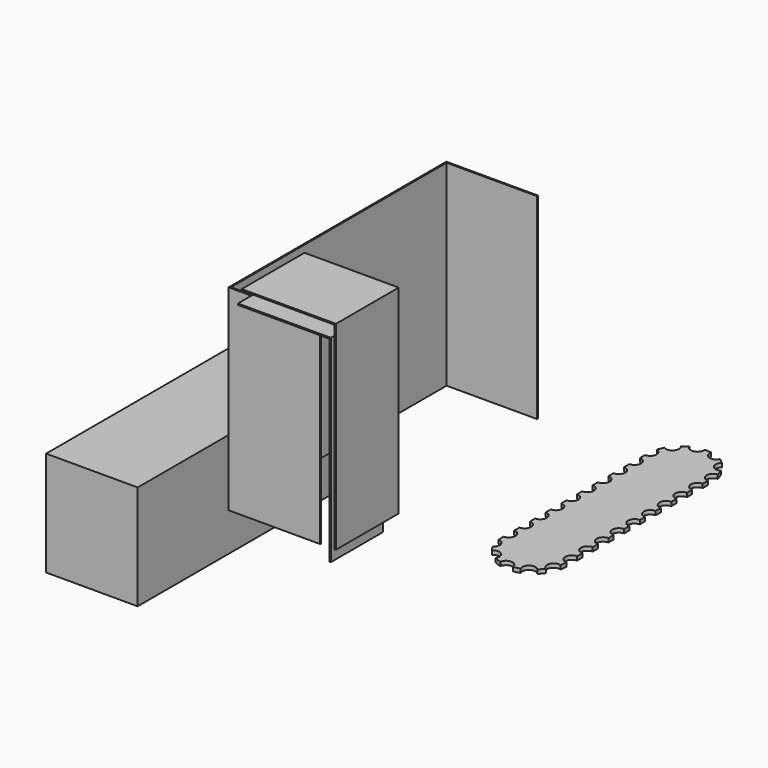
from build123d import *

# Parameters (mm, degrees)
F0_W     = 700
F0_H     = 2080
F1_DEPTH = 800
F3_DEPTH = 1500
F5_DEPTH = 500
F7_DEPTH = 600
F9_DEPTH = 30


with BuildPart() as f1:
    # F0 (on Top) → F1 (new body)
    with BuildSketch(Plane.XY):
        with Locations((185.6392532587, 991.8245942891)):
            Rectangle(F0_W, F0_H)
    extrude(amount=F1_DEPTH)


with BuildPart() as f3:
    # F2 (on face) → F3 (new body)
    with BuildSketch(Plane.XY.offset(800)):
        Polygon((1843.7712907791, 2130.4741051793), (1843.7712907791, 2140.4741051793), (1143.7712907791, 2140.4741051793), (1143.7712907791, 60.4741051793), (1843.7712907791, 60.4741051793), (1843.7712907791, 70.4741051793), (1153.7712907791, 70.4741051793), (1153.7712907791, 2130.4741051793), align=None)
    extrude(amount=F3_DEPTH)


with BuildPart() as f5:
    # F4 (on face) → F5 (new body)
    with BuildSketch(Plane.XZ.offset(-60.4741051793)):
        Polygon((2314.7522926331, 2537.756562233), (2314.7522926331, 1037.756562233), (2324.7522926331, 1037.756562233), (2324.7522926331, 2547.756562233), (1614.7522926331, 2547.756562233), (1614.7522926331, 2537.756562233), align=None)
    extrude(amount=F5_DEPTH)


with BuildPart() as f7:
    # F6 (on face) → F7 (new body)
    with BuildSketch(Plane.XZ.offset(-60.4741051793)):
        Polygon((1724.0227460861, 2721.1852169037), (1724.0227460861, 2711.1852169037), (2434.0227460861, 2711.1852169037), (2434.0227460861, 1201.1852169037), (2444.0227460861, 1201.1852169037), (2444.0227460861, 2721.1852169037), align=None)
    extrude(amount=F7_DEPTH)


with BuildPart() as f9:
    # F8 (on face) → F9 (new body)
    with BuildSketch(Plane.XY.offset(800)):
        with BuildLine():
            Line((3174.4491077536, 2050.9436511483), (3174.4491077536, 2100.9436511483))
            ThreePointArc((3174.4491077536, 2100.9436511483), (3124.5118040981, 2148.4405123953), (3169.4491077536, 2200.6930230036))
            ThreePointArc((3169.4491077536, 2200.6930230036), (3162.9339081078, 2225.9436511483), (3153.8238333888, 2250.3782288352))
            ThreePointArc((3153.8238333888, 2250.3782288352), (3088.4491077536, 2265.4163553183), (3096.8743821184, 2331.967198678))
            ThreePointArc((3096.8743821184, 2331.967198678), (3077.0793799803, 2348.9436511483), (3055.6236577953, 2363.7657304102))
            ThreePointArc((3055.6236577953, 2363.7657304102), (2993.4091077536, 2338.6788859872), (2962.2265577119, 2398.0728972416))
            ThreePointArc((2962.2265577119, 2398.0728972416), (2936.2779538512, 2400.6636511483), (2910.2006441868, 2400.5372834509))
            ThreePointArc((2910.2006441868, 2400.5372834509), (2910.6627536099, 2396.6357620487), (2910.8171077536, 2392.7100023554))
            ThreePointArc((2910.8171077536, 2392.7100023554), (2869.7077539151, 2343.5067869033), (2813.9788513204, 2375.2120672117))
            ThreePointArc((2813.9788513204, 2375.2120672117), (2791.2181431269, 2362.4844511483), (2769.9070774624, 2347.4551288626))
            ThreePointArc((2769.9070774624, 2347.4551288626), (2780.2646154479, 2331.470053403), (2783.8926277536, 2312.7714235794))
            ThreePointArc((2783.8926277536, 2312.7714235794), (2757.1347282886, 2268.5017413723), (2705.5004372448, 2271.6146073989))
            ThreePointArc((2705.5004372448, 2271.6146073989), (2694.1678684375, 2248.2604062269), (2685.3180844688, 2223.8569812242))
            ThreePointArc((2685.3180844688, 2223.8569812242), (2713.4583940567, 2206.3300206781), (2724.4491077536, 2175.052623374))
            ThreePointArc((2724.4491077536, 2175.052623374), (2709.8044468129, 2139.6972843147), (2674.4491077536, 2125.052623374))
            Line((2674.4491077536, 2125.052623374), (2674.4491077536, 2075.052623374))
            ThreePointArc((2674.4491077536, 2075.052623374), (2709.8044468129, 2060.4079624333), (2724.4491077536, 2025.052623374))
            ThreePointArc((2724.4491077536, 2025.052623374), (2709.8044468129, 1989.6972843147), (2674.4491077536, 1975.052623374))
            Line((2674.4491077536, 1975.052623374), (2674.4491077536, 1925.052623374))
            ThreePointArc((2674.4491077536, 1925.052623374), (2709.8044468129, 1910.4079624333), (2724.4491077536, 1875.052623374))
            ThreePointArc((2724.4491077536, 1875.052623374), (2709.8044468129, 1839.6972843147), (2674.4491077536, 1825.052623374))
            Line((2674.4491077536, 1825.052623374), (2674.4491077536, 1775.052623374))
            ThreePointArc((2674.4491077536, 1775.052623374), (2709.8044468129, 1760.4079624333), (2724.4491077536, 1725.052623374))
            ThreePointArc((2724.4491077536, 1725.052623374), (2709.8044468129, 1689.6972843147), (2674.4491077536, 1675.052623374))
            Line((2674.4491077536, 1675.052623374), (2674.4491077536, 1625.052623374))
            ThreePointArc((2674.4491077536, 1625.052623374), (2709.8044468129, 1610.4079624333), (2724.4491077536, 1575.052623374))
            ThreePointArc((2724.4491077536, 1575.052623374), (2709.8044468129, 1539.6972843147), (2674.4491077536, 1525.052623374))
            Line((2674.4491077536, 1525.052623374), (2674.4491077536, 1475.052623374))
            ThreePointArc((2674.4491077536, 1475.052623374), (2709.8044468129, 1460.4079624333), (2724.4491077536, 1425.052623374))
            ThreePointArc((2724.4491077536, 1425.052623374), (2709.8044468129, 1389.6972843147), (2674.4491077536, 1375.052623374))
            Line((2674.4491077536, 1375.052623374), (2674.4491077536, 1325.052623374))
            ThreePointArc((2674.4491077536, 1325.052623374), (2709.8044468129, 1310.4079624333), (2724.4491077536, 1275.052623374))
            ThreePointArc((2724.4491077536, 1275.052623374), (2709.8044468129, 1239.6972843147), (2674.4491077536, 1225.052623374))
            Line((2674.4491077536, 1225.052623374), (2674.4491077536, 1175.052623374))
            ThreePointArc((2674.4491077536, 1175.052623374), (2709.8044468129, 1160.4079624333), (2724.4491077536, 1125.052623374))
            ThreePointArc((2724.4491077536, 1125.052623374), (2709.8044468129, 1089.6972843147), (2674.4491077536, 1075.052623374))
            Line((2674.4491077536, 1075.052623374), (2674.4491077536, 1025.052623374))
            ThreePointArc((2674.4491077536, 1025.052623374), (2709.8044468129, 1010.4079624333), (2724.4491077536, 975.052623374))
            ThreePointArc((2724.4491077536, 975.052623374), (2709.8044468129, 939.6972843147), (2674.4491077536, 925.052623374))
            Line((2674.4491077536, 925.052623374), (2674.4491077536, 875.052623374))
            ThreePointArc((2674.4491077536, 875.052623374), (2709.8044468129, 860.4079624333), (2724.4491077536, 825.052623374))
            ThreePointArc((2724.4491077536, 825.052623374), (2709.8044468129, 789.6972843147), (2674.4491077536, 775.052623374))
            Line((2674.4491077536, 775.052623374), (2674.4491077536, 750.9436511483))
            ThreePointArc((2674.4491077536, 750.9436511483), (2674.7858828215, 737.9715997875), (2675.7953006857, 725.0344977345))
            ThreePointArc((2675.7953006857, 725.0344977345), (2710.277236693, 709.9287638815), (2724.4491077536, 675.052623374))
            ThreePointArc((2724.4491077536, 675.052623374), (2718.8630717893, 652.0874367073), (2703.3531158082, 634.2536243865))
            ThreePointArc((2703.3531158082, 634.2536243865), (2716.2954883044, 612.4804043635), (2731.3746097127, 592.1285441645))
            ThreePointArc((2731.3746097127, 592.1285441645), (2785.9021095714, 603.1072278205), (2816.8399069279, 556.8835063089))
            ThreePointArc((2816.8399069279, 556.8835063089), (2814.7381493925, 542.5392263062), (2808.609572176, 529.4008742469))
            ThreePointArc((2808.609572176, 529.4008742469), (2834.5574637112, 517.6637927564), (2861.6718642351, 508.9539453833))
            ThreePointArc((2861.6718642351, 508.9539453833), (2913.7560235783, 551.2297108466), (2961.0282950427, 503.6342031742))
            ThreePointArc((2961.0282950427, 503.6342031742), (2986.5911451432, 508.7900486786), (3011.4778480695, 516.5806882915))
            ThreePointArc((3011.4778480695, 516.5806882915), (3029.9897527638, 581.0578887936), (3095.9949477126, 569.0864962361))
            ThreePointArc((3095.9949477126, 569.0864962361), (3114.0054669092, 587.9455324362), (3129.9534853903, 608.5780978281))
            ThreePointArc((3129.9534853903, 608.5780978281), (3108.2288497456, 672.0449411883), (3169.2050979973, 700.0073650665))
            ThreePointArc((3169.2050979973, 700.0073650665), (3173.1346497147, 725.3408931029), (3174.4491077536, 750.9436511483))
            ThreePointArc((3174.4491077536, 750.9436511483), (3124.4491077536, 800.9436511483), (3174.4491077536, 850.9436511483))
            Line((3174.4491077536, 850.9436511483), (3174.4491077536, 900.9436511483))
            ThreePointArc((3174.4491077536, 900.9436511483), (3124.4491077536, 950.9436511483), (3174.4491077536, 1000.9436511483))
            Line((3174.4491077536, 1000.9436511483), (3174.4491077536, 1050.9436511483))
            ThreePointArc((3174.4491077536, 1050.9436511483), (3124.4491077536, 1100.9436511483), (3174.4491077536, 1150.9436511483))
            Line((3174.4491077536, 1150.9436511483), (3174.4491077536, 1200.9436511483))
            ThreePointArc((3174.4491077536, 1200.9436511483), (3124.4491077536, 1250.9436511483), (3174.4491077536, 1300.9436511483))
            Line((3174.4491077536, 1300.9436511483), (3174.4491077536, 1350.9436511483))
            ThreePointArc((3174.4491077536, 1350.9436511483), (3124.4491077536, 1400.9436511483), (3174.4491077536, 1450.9436511483))
            Line((3174.4491077536, 1450.9436511483), (3174.4491077536, 1500.9436511483))
            ThreePointArc((3174.4491077536, 1500.9436511483), (3124.4491077536, 1550.9436511483), (3174.4491077536, 1600.9436511483))
            Line((3174.4491077536, 1600.9436511483), (3174.4491077536, 1650.9436511483))
            ThreePointArc((3174.4491077536, 1650.9436511483), (3124.4491077536, 1700.9436511483), (3174.4491077536, 1750.9436511483))
            Line((3174.4491077536, 1750.9436511483), (3174.4491077536, 1800.9436511483))
            ThreePointArc((3174.4491077536, 1800.9436511483), (3124.4491077536, 1850.9436511483), (3174.4491077536, 1900.9436511483))
            Line((3174.4491077536, 1900.9436511483), (3174.4491077536, 1950.9436511483))
            ThreePointArc((3174.4491077536, 1950.9436511483), (3124.4491077536, 2000.9436511483), (3174.4491077536, 2050.9436511483))
        make_face()
    extrude(amount=F9_DEPTH)


solid = Compound([f1.part, f3.part, f5.part, f7.part, f9.part])
